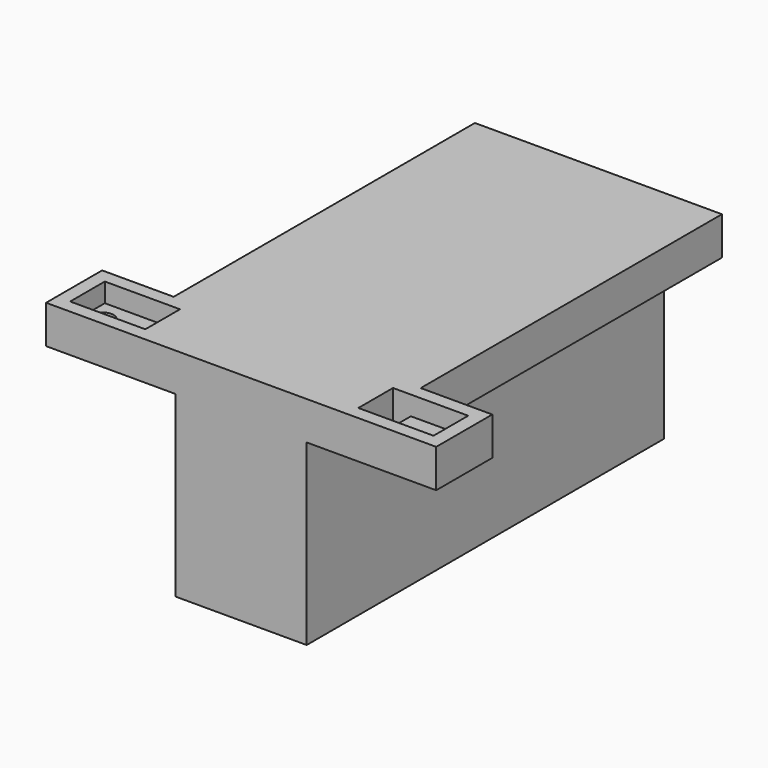
from build123d import *

# Parameters (mm, degrees)
F0_W      = 31.75
F0_H      = 63.5
F1_DEPTH  = 7.62
F2_W      = 11.7348
F2_H      = 7.62
F3_DEPTH  = 19.05
F4_W      = 13.97
F4_H      = 7.62
F5_DEPTH  = 33.02
F6_W      = 13.97
F6_H      = 7.62
F7_DEPTH  = 33.02
F8_R      = 2.159
F8_W      = 0.508
F8_H      = 7.62
F8_W_2    = 2.54
F9_DEPTH  = 7.621
F10_DEPTH = 10.0076
F11_DEPTH = 10.0076
F8_W_3    = 10.922
F12_DEPTH = 3.81
F13_DEPTH = 8.75000028
F14_DEPTH = 8.75000028
F15_DEPTH = 6.477
F16_W     = 18.51600056
F16_H     = 5.08
F17_DEPTH = 35.56


with BuildPart() as f1:
    # F0 (on Top) → F1 (new body)
    with BuildSketch(Plane.XY):
        with Locations((15.875, -31.75)):
            Rectangle(F0_W, F0_H)
    extrude(amount=F1_DEPTH)

    # F2 (on face) → F3 (join)
    with BuildSketch(Plane.XZ.offset(63.5)):
        with Locations((15.875, 3.81)):
            Rectangle(F2_W, F2_H)
    extrude(amount=F3_DEPTH)

    # F4 (on face) → F5 (join)
    with BuildSketch(Plane(origin=(10.0076, 0, 0), x_dir=(0, -1, 0), z_dir=(-1, 0, 0))):
        with Locations((75.565, 3.81)):
            Rectangle(F4_W, F4_H)
    extrude(amount=F5_DEPTH)

    # F6 (on face) → F7 (join)
    with BuildSketch(Plane.YZ.offset(21.7424)):
        with Locations((-75.565, 3.81)):
            Rectangle(F6_W, F6_H)
    extrude(amount=F7_DEPTH)

    # F8 (on face) → F9 (cut, through all)
    with BuildSketch(Plane.XY.offset(7.62)):
        with Locations((49.0474, -75.565)):
            Circle(F8_R)
        Polygon((37.6174, -71.755), (40.1574, -71.755), (40.6654, -71.755), (40.6654, -71.247), (37.1094, -71.247), (37.1094, -79.883), (40.6654, -79.883), (40.6654, -79.375), (40.1574, -79.375), (37.6174, -79.375), align=None)
        with Locations((40.4114, -75.565)):
            Rectangle(F8_W, F8_H)
        with Locations((38.8874, -75.565)):
            Rectangle(F8_W_2, F8_H)
        with Locations((-17.2974, -75.565)):
            Circle(F8_R)
        Polygon((-8.4074, -71.755), (-5.8674, -71.755), (-5.8674, -79.375), (-8.4074, -79.375), (-8.9154, -79.375), (-8.9154, -79.883), (-5.3594, -79.883), (-5.3594, -71.247), (-8.9154, -71.247), (-8.9154, -71.755), align=None)
        with Locations((-8.6614, -75.565)):
            Rectangle(F8_W, F8_H)
        with Locations((-7.1374, -75.565)):
            Rectangle(F8_W_2, F8_H)
    extrude(amount=-F9_DEPTH, mode=Mode.SUBTRACT)

    # F10 (add): a face of the model
    f10_faces = [f1.faces().sort_by_distance(p)[0] for p in [
        (10.0076, -66.04, 3.81),
    ]]
    extrude(f10_faces, amount=F10_DEPTH)

    # F11 (add): a face of the model
    f11_faces = [f1.faces().sort_by_distance(p)[0] for p in [
        (21.7424, -66.04, 3.81),
    ]]
    extrude(f11_faces, amount=F11_DEPTH)

    # F8 (on face) → F12 (cut)
    with BuildSketch(Plane.XY.offset(7.62)):
        with Locations((46.1264, -75.565)):
            Rectangle(F8_W_3, F8_H)
        with Locations((49.0474, -75.565)):
            Circle(F8_R, mode=Mode.SUBTRACT)
        Polygon((40.6654, -71.247), (40.6654, -71.755), (51.5874, -71.755), (51.5874, -79.375), (40.6654, -79.375), (40.6654, -79.883), (52.0954, -79.883), (52.0954, -71.247), align=None)
        with Locations((-14.3764, -75.565)):
            Rectangle(F8_W_3, F8_H)
        with Locations((-17.2974, -75.565)):
            Circle(F8_R, mode=Mode.SUBTRACT)
        Polygon((-19.8374, -71.755), (-8.9154, -71.755), (-8.9154, -71.247), (-20.3454, -71.247), (-20.3454, -79.883), (-8.9154, -79.883), (-8.9154, -79.375), (-19.8374, -79.375), align=None)
    extrude(amount=-F12_DEPTH, mode=Mode.SUBTRACT)

    # F13 (add): a face of the model
    f13_faces = [f1.faces().sort_by_distance(p)[0] for p in [
        (0, -34.29, 3.81),
    ]]
    extrude(f13_faces, amount=F13_DEPTH)

    # F14 (add): a face of the model
    f14_faces = [f1.faces().sort_by_distance(p)[0] for p in [
        (31.75, -34.29, 3.81),
    ]]
    extrude(f14_faces, amount=F14_DEPTH)

    # F15 (add): a face of the model
    f15_faces = [f1.faces().sort_by_distance(p)[0] for p in [
        (15.875, 0, 3.81),
    ]]
    extrude(f15_faces, amount=F15_DEPTH)

    # F16 (on face) → F17 (join)
    with BuildSketch(Plane(origin=(0, 0, 0), x_dir=(1, 0, 0), z_dir=(0, 0, -1))):
        with Locations((15.875, -3.937)):
            Rectangle(F16_W, F16_H)
        with Locations((15.875, 80.01)):
            Rectangle(F16_W, F16_H)
        Polygon((2.80699972, -6.477), (6.61699972, -6.477), (6.61699972, -1.397), (6.61699972, 77.47), (6.61699972, 82.55), (2.80699972, 82.55), align=None)
        Polygon((25.13300028, -1.397), (25.13300028, -6.477), (28.94300028, -6.477), (28.94300028, 82.55), (25.13300028, 82.55), (25.13300028, 77.47), align=None)
    extrude(amount=F17_DEPTH)


solid = f1.part
